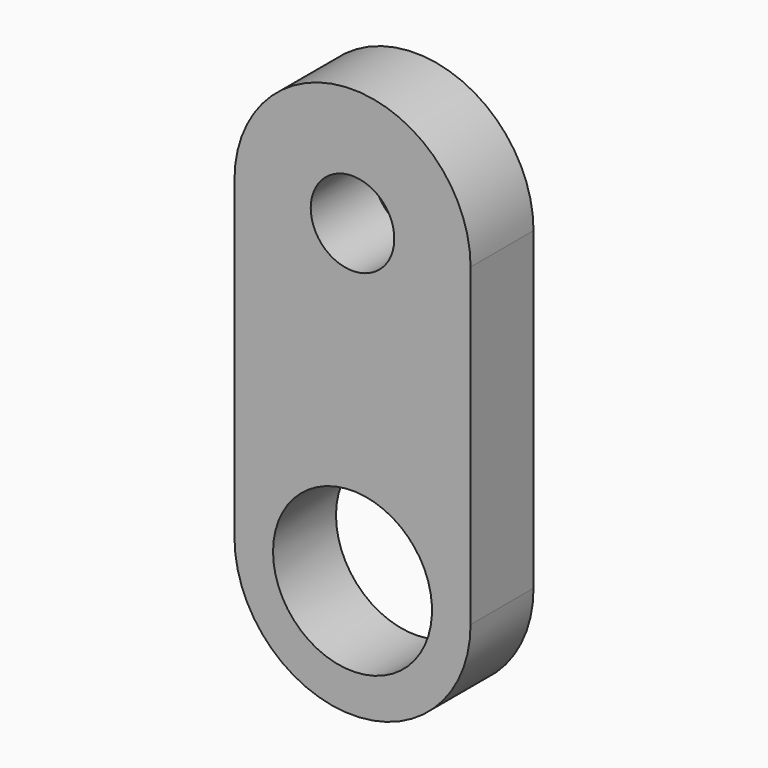
from build123d import *

# Parameters (mm, degrees)
F1_DEPTH = 12.7
F4_D     = 13.4874
F5_D     = 25.654


with BuildPart() as f1:
    # F0 (on Front) → F1 (new body)
    with BuildSketch(Plane.XZ):
        with BuildLine():
            Line((-19.05, 50.8), (19.05, 50.8))
            ThreePointArc((19.05, 50.8), (0, 69.85), (-19.05, 50.8))
        make_face()
        with BuildLine():
            ThreePointArc((-19.05, 50.8), (0, 31.75), (19.05, 50.8))
            Line((19.05, 50.8), (-19.05, 50.8))
        make_face()
        with BuildLine():
            ThreePointArc((-19.05, 0), (0, 19.05), (19.05, 0))
            Line((19.05, 0), (19.05, 50.8))
            ThreePointArc((19.05, 50.8), (0, 31.75), (-19.05, 50.8))
            Line((-19.05, 50.8), (-19.05, 0))
        make_face()
        with BuildLine():
            Line((-19.05, 0), (19.05, 0))
            ThreePointArc((19.05, 0), (0, 19.05), (-19.05, 0))
        make_face()
        with BuildLine():
            ThreePointArc((-19.05, 0), (0, -19.05), (19.05, 0))
            Line((19.05, 0), (-19.05, 0))
        make_face()
    extrude(amount=F1_DEPTH)

    # F4 (through all)
    with Locations(Plane.XZ.offset(12.7)):
        with Locations((0, 50.8)):
            Hole(F4_D / 2)

    # F5 (through all)
    with Locations(Plane.XZ.offset(12.7)):
        with Locations((0, 0)):
            Hole(F5_D / 2)


solid = f1.part
